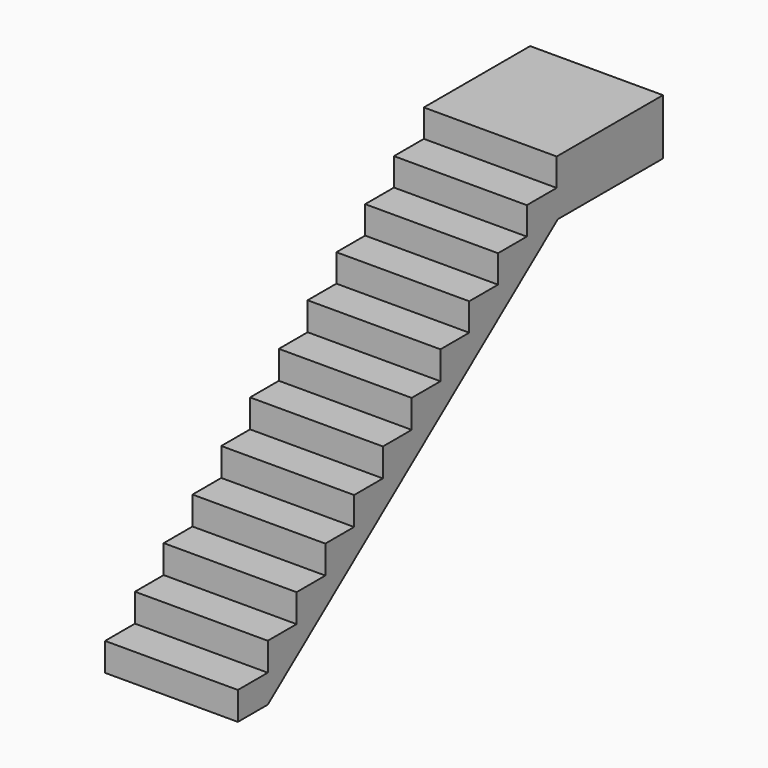
from build123d import *

# Parameters (mm, degrees)
F1_DEPTH = 914.4


with BuildPart() as f1:
    # F0 (on Right) → F1 (new body)
    with BuildSketch(Plane.YZ):
        Polygon((-363.715251, 541.245239), (-363.715251, 347.570239), (-620.890251, 347.570239), (-620.890251, 153.895239), (-363.715251, 153.895239), (2131.830454, 2081.120239), (3036.709749, 2081.120239), (3036.709749, 2465.295239), (2122.309749, 2465.295239), (2122.309749, 2274.795239), (1865.134749, 2274.795239), (1865.134749, 2084.295239), (1617.484749, 2084.295239), (1617.484749, 1893.795239), (1369.834749, 1893.795239), (1369.834749, 1703.295239), (1122.184749, 1703.295239), (1122.184749, 1509.620239), (874.534749, 1509.620239), (874.534749, 1315.945239), (626.884749, 1315.945239), (626.884749, 1122.270239), (379.234749, 1122.270239), (379.234749, 928.595239), (131.584749, 928.595239), (131.584749, 734.920239), (-116.065251, 734.920239), (-116.065251, 541.245239), align=None)
    extrude(amount=F1_DEPTH)


solid = f1.part
